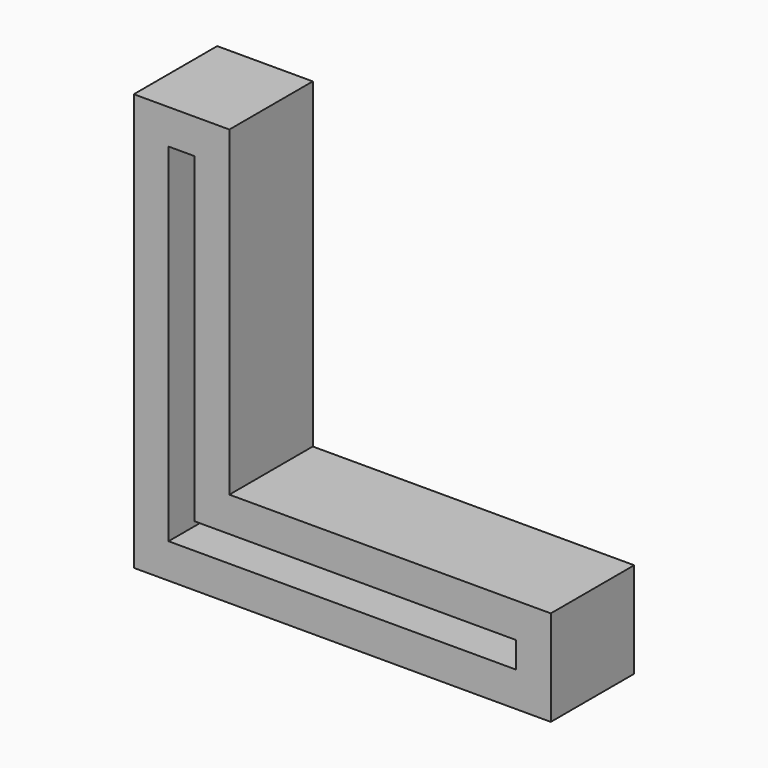
from build123d import *

# Parameters (mm, degrees)
EXTRUDE_DEPTH                     = 6
EXTRUDE_ONTO_SKETCH001_ROLL_ANGLE = 90
POCKET_DEPTH                      = 4


with BuildPart() as part:
    # Sketch001 as drawn → Extrude (new)
    with BuildSketch(Plane.XY):
        Polygon((-12.993358, 11.821226), (-12.993358, -12.178774), (11.006642, -12.178774), (11.006642, -6.678774), (-7.493358, -6.678774), (-7.493358, 11.821226), align=None)
    extrude(amount=EXTRUDE_DEPTH)


with BuildPart() as part_1:
    # Extrude onto Sketch001 roll: moved
    add(part.part.rotate(Axis((0, 0, 0), (1, 0, 0)), EXTRUDE_ONTO_SKETCH001_ROLL_ANGLE))


with BuildPart() as part_2:
    # Extrude onto Sketch001 placement: moved
    add(part_1.part)

    # Sketch002 → Pocket (cut)
    with BuildSketch(Plane.XZ.offset(6)):
        Polygon((-10.993358, 9.821226), (-10.993358, -10.178774), (9.006642, -10.178774), (9.006642, -8.678774), (-9.493358, -8.678774), (-9.493358, 9.821226), align=None)
    extrude(amount=-POCKET_DEPTH, mode=Mode.SUBTRACT)


solid = part_2.part
